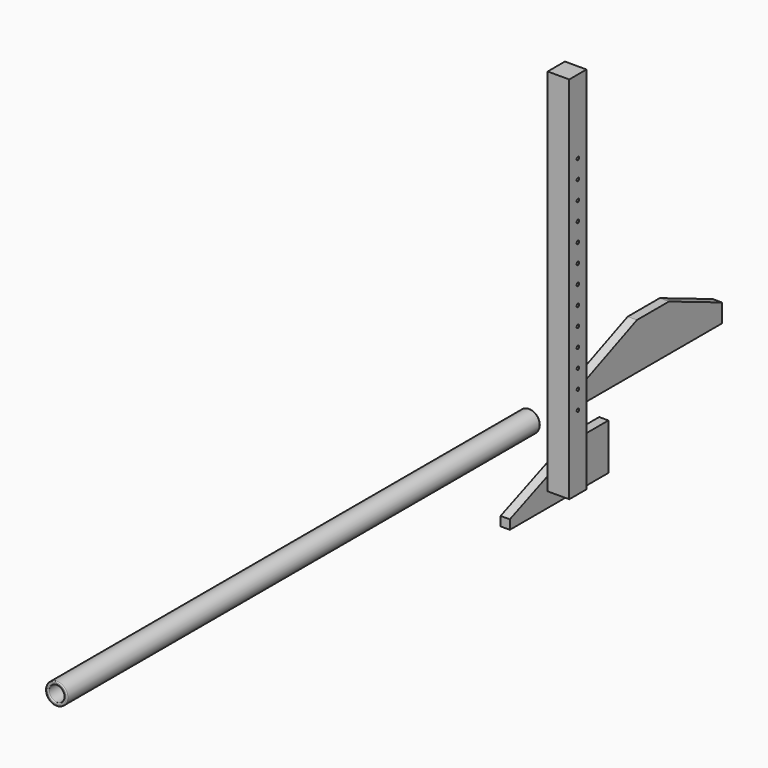
from build123d import *

# Parameters (mm, degrees)
F0_R      = 44.45
F1_DEPTH  = 2438.4
F2_W      = 88.9
F2_H      = 88.9
F3_DEPTH  = 1524
F5_DEPTH  = 38.1
F6_R      = 6.35
F7_DEPTH  = 88.9
F8_T      = -12.7
F9_R      = 3.81
F11_DEPTH = 38.1


with BuildPart() as f1:
    # F0 (on Front) → F1 (new body)
    with BuildSketch(Plane.XZ):
        Circle(F0_R)
    extrude(amount=F1_DEPTH)

    # F8
    f8_openings = [f1.faces().sort_by_distance(p)[0] for p in [
        (0, 0, 0),
        (0, -2438.4, 0),
    ]]
    offset(amount=F8_T, openings=f8_openings)

    # F9
    f9_edges = [f1.edges().sort_by_distance(p)[0] for p in [
        (31.75, -1219.2, 0),
        (-31.75, 0, 0),
        (-31.75, -2438.4, 0),
        (44.45, -1219.2, 0),
        (-44.45, 0, 0),
        (-44.45, -2438.4, 0),
    ]]
    fillet(f9_edges, radius=F9_R)


with BuildPart() as f3:
    # F2 (on Top) → F3 (new body)
    with BuildSketch(Plane.XY):
        with Locations((397.1512678623, -302.5738894224)):
            Rectangle(F2_W, F2_H)
    extrude(amount=F3_DEPTH)

    # F6 (on face) → F7 (cut, through all)
    with BuildSketch(Plane.YZ.offset(441.6012678623)):
        with Locations((-302.5738894224, 304.8)):
            Circle(F6_R)
        with Locations((-302.5738894224, 381)):
            Circle(F6_R)
        with Locations((-302.5738894224, 457.2)):
            Circle(F6_R)
        with Locations((-302.5738894224, 533.4)):
            Circle(F6_R)
        with Locations((-302.5738894224, 609.6)):
            Circle(F6_R)
        with Locations((-302.5738894224, 685.8)):
            Circle(F6_R)
        with Locations((-302.5738894224, 762)):
            Circle(F6_R)
        with Locations((-302.5738894224, 838.2)):
            Circle(F6_R)
        with Locations((-302.5738894224, 914.4)):
            Circle(F6_R)
        with Locations((-302.5738894224, 990.6)):
            Circle(F6_R)
        with Locations((-302.5738894224, 1066.8)):
            Circle(F6_R)
        with Locations((-302.5738894224, 1143)):
            Circle(F6_R)
        with Locations((-302.5738894224, 1219.2)):
            Circle(F6_R)
    extrude(amount=-F7_DEPTH, mode=Mode.SUBTRACT)


with BuildPart() as f5:
    # F4 (on Right) → F5 (new body)
    with BuildSketch(Plane.YZ):
        Polygon((359.2421412468, -132.1018100977), (232.2421412468, -132.1018100977), (-148.7578587532, -284.5018100977), (-148.7578587532, -322.6018100977), (359.2421412468, -322.6018100977), align=None)
    extrude(amount=F5_DEPTH)


with BuildPart() as f11:
    # F10 (on Right) → F11 (new body)
    with BuildSketch(Plane.YZ):
        Polygon((506.095382718, 172.7314119343), (233.045382718, 58.4314119343), (233.045382718, -17.7685880657), (588.645382718, -17.7685880657), (944.245382718, -17.7685880657), (944.245382718, 58.4314119343), (671.195382718, 172.7314119343), (588.645382718, 172.7314119343), align=None)
    extrude(amount=F11_DEPTH)


solid = Compound([f1.part, f3.part, f5.part, f11.part])
